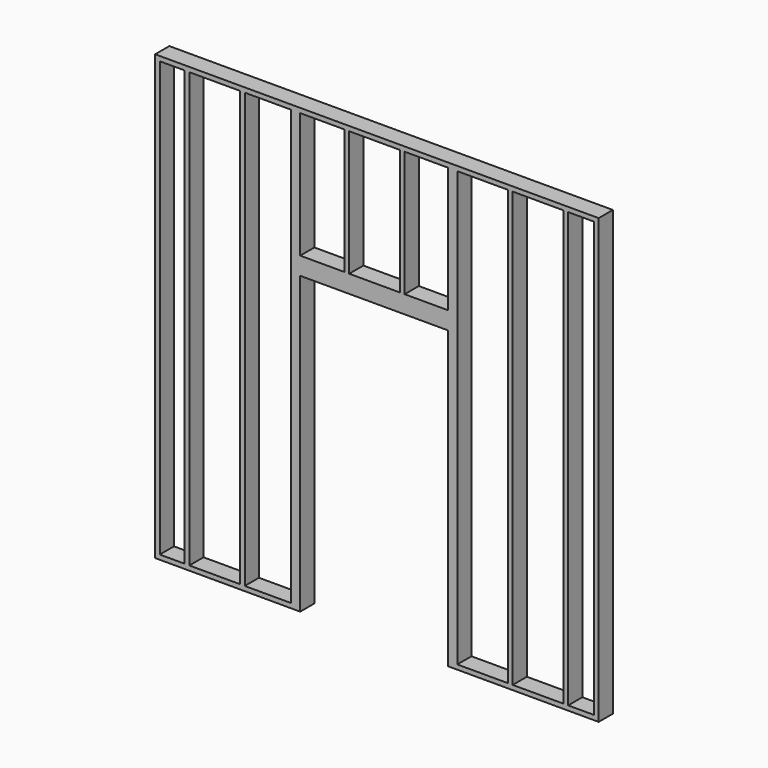
from build123d import *

# Parameters (mm, degrees)
F0_W     = 205.74
F0_H     = 3581.4
F0_W_2   = 419.1
F0_W_3   = 381
F0_W_4   = 365.76
F0_H_2   = 1034.796
F0_W_5   = 213.36
F0_W_6   = 358.14
F1_DEPTH = 146.304


with BuildPart() as f1:
    # F0 (on Front) → F1 (new body)
    with BuildSketch(Plane.XZ):
        Polygon((457.2, 38.1), (457.2, 0), (1653.54, 0), (1653.54, 38.1), (1653.54, 1072.896), (1653.54, 1219.2), (1653.54, 2438.4), (2019.3, 2438.4), (2476.5, 2438.4), (2514.6, 2438.4), (2872.74, 2438.4), (2872.74, 1219.2), (2872.74, 1072.896), (2872.74, 38.1), (2872.74, 0), (4114.8, 0), (4114.8, 38.1), (4114.8, 3619.5), (4114.8, 3657.6), (457.2, 3657.6), (457.2, 3619.5), align=None)
        with Locations((598.17, 1828.8)):
            Rectangle(F0_W, F0_H, mode=Mode.SUBTRACT)
        with Locations((948.69, 1828.8)):
            Rectangle(F0_W_2, F0_H, mode=Mode.SUBTRACT)
        with Locations((1386.84, 1828.8)):
            Rectangle(F0_W_3, F0_H, mode=Mode.SUBTRACT)
        with Locations((1836.42, 3102.102)):
            Rectangle(F0_W_4, F0_H_2, mode=Mode.SUBTRACT)
        with Locations((2266.95, 3102.102)):
            Rectangle(F0_W_2, F0_H_2, mode=Mode.SUBTRACT)
        with Locations((3158.49, 1828.8)):
            Rectangle(F0_W_2, F0_H, mode=Mode.SUBTRACT)
        with Locations((3615.69, 1828.8)):
            Rectangle(F0_W_2, F0_H, mode=Mode.SUBTRACT)
        with Locations((3970.02, 1828.8)):
            Rectangle(F0_W_5, F0_H, mode=Mode.SUBTRACT)
        with Locations((2693.67, 3102.102)):
            Rectangle(F0_W_6, F0_H_2, mode=Mode.SUBTRACT)
    extrude(amount=F1_DEPTH)


solid = f1.part
